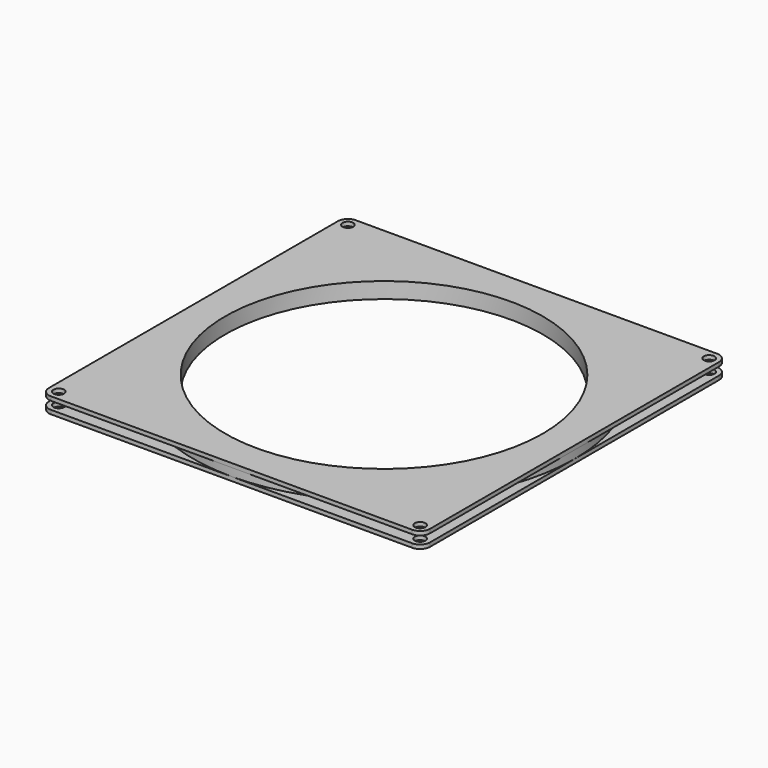
from build123d import *

# Parameters (mm, degrees)
F0_W     = 152.4
F0_H     = 152.4
F0_R     = 2.15265
F0_R_2   = 63.5
F1_DEPTH = 1.5875
F2_R     = 76.2
F2_R_2   = 63.5
F3_DEPTH = 3.175
F4_W     = 152.4
F4_H     = 152.4
F4_R     = 2.15265
F4_R_2   = 63.5
F5_DEPTH = 1.5875
F6_R     = 3.96875


with BuildPart() as f1:
    # F0 (on Top) → F1 (new body)
    with BuildSketch(Plane.XY):
        Rectangle(F0_W, F0_H)
        with Locations((-72.23125, -72.23125)):
            Circle(F0_R, mode=Mode.SUBTRACT)
        with Locations((72.23125, -72.23125)):
            Circle(F0_R, mode=Mode.SUBTRACT)
        with Locations((-72.23125, 72.23125)):
            Circle(F0_R, mode=Mode.SUBTRACT)
        Circle(F0_R_2, mode=Mode.SUBTRACT)
        with Locations((72.23125, 72.23125)):
            Circle(F0_R, mode=Mode.SUBTRACT)
    extrude(amount=F1_DEPTH)

    # F2 (on face) → F3 (join)
    with BuildSketch(Plane.XY.offset(1.5875)):
        Circle(F2_R)
        Circle(F2_R_2, mode=Mode.SUBTRACT)
    extrude(amount=F3_DEPTH)

    # F4 (on face) → F5 (join)
    with BuildSketch(Plane.XY.offset(4.7625)):
        Rectangle(F4_W, F4_H)
        with Locations((-72.23125, -72.23125)):
            Circle(F4_R, mode=Mode.SUBTRACT)
        with Locations((72.23125, -72.23125)):
            Circle(F4_R, mode=Mode.SUBTRACT)
        with Locations((-72.23125, 72.23125)):
            Circle(F4_R, mode=Mode.SUBTRACT)
        Circle(F4_R_2, mode=Mode.SUBTRACT)
        with Locations((72.23125, 72.23125)):
            Circle(F4_R, mode=Mode.SUBTRACT)
    extrude(amount=F5_DEPTH)

    # F6
    f6_edges = [f1.edges().sort_by_distance(p)[0] for p in [
        (-76.2, 76.2, 0.79375),
        (-76.2, -76.2, 0.79375),
        (76.2, -76.2, 0.79375),
        (76.2, 76.2, 0.79375),
        (-76.2, 76.2, 5.55625),
        (-76.2, -76.2, 5.55625),
        (76.2, -76.2, 5.55625),
        (76.2, 76.2, 5.55625),
    ]]
    fillet(f6_edges, radius=F6_R)


solid = f1.part
